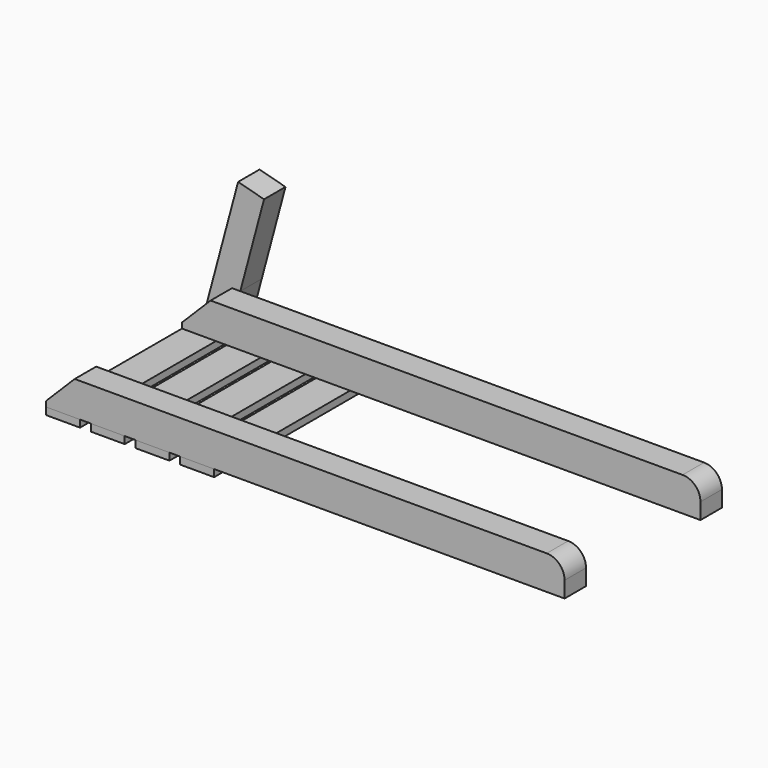
from build123d import *

# Parameters (mm, degrees)
F0_W     = 1450
F0_H     = 75
F1_DEPTH = 95
F2_W     = 95
F2_H     = 550
F3_DEPTH = 20
F4_SIZE  = 80
F5_R     = 50
F7_DEPTH = 75


with BuildPart() as f1:
    # F0 (on Top) → F1 (new body)
    with BuildSketch(Plane.XY):
        with Locations((0, 237.5)):
            Rectangle(F0_W, F0_H)
        with Locations((0, -237.5)):
            Rectangle(F0_W, F0_H)
    extrude(amount=F1_DEPTH)

    # F4
    f4_edges = [f1.edges().sort_by_distance(p)[0] for p in [
        (-725, 237.5, 95),
        (-725, -237.5, 95),
    ]]
    chamfer(f4_edges, length=F4_SIZE)

    # F5
    f5_edges = [f1.edges().sort_by_distance(p)[0] for p in [
        (725, 237.5, 95),
        (725, -237.5, 95),
    ]]
    fillet(f5_edges, radius=F5_R)


with BuildPart() as f3:
    # F2 (on Top) → F3 (new body)
    with BuildSketch(Plane.XY):
        with Locations((-677.5, 0)):
            Rectangle(F2_W, F2_H)
        with Locations((-552.5, 0)):
            Rectangle(F2_W, F2_H)
        with Locations((-427.5, 0)):
            Rectangle(F2_W, F2_H)
        with Locations((-302.5, 0)):
            Rectangle(F2_W, F2_H)
    extrude(amount=-F3_DEPTH)


with BuildPart() as f7:
    # F6 (on face) → F7 (new body)
    with BuildSketch(Plane(origin=(0, 275, 0), x_dir=(-1, 0, 0), z_dir=(0, 1, 0))):
        Polygon((645, 95), (719.509619, 20.490381), (627.942858, 362.222185), (555.498421, 342.810756), (621.899113, 95), align=None)
        Polygon((647.354286, 0), (725, 0), (719.509619, 20.490381), (645, 95), (621.899113, 95), align=None)
    extrude(amount=F7_DEPTH)


solid = Compound([f1.part, f3.part, f7.part])
